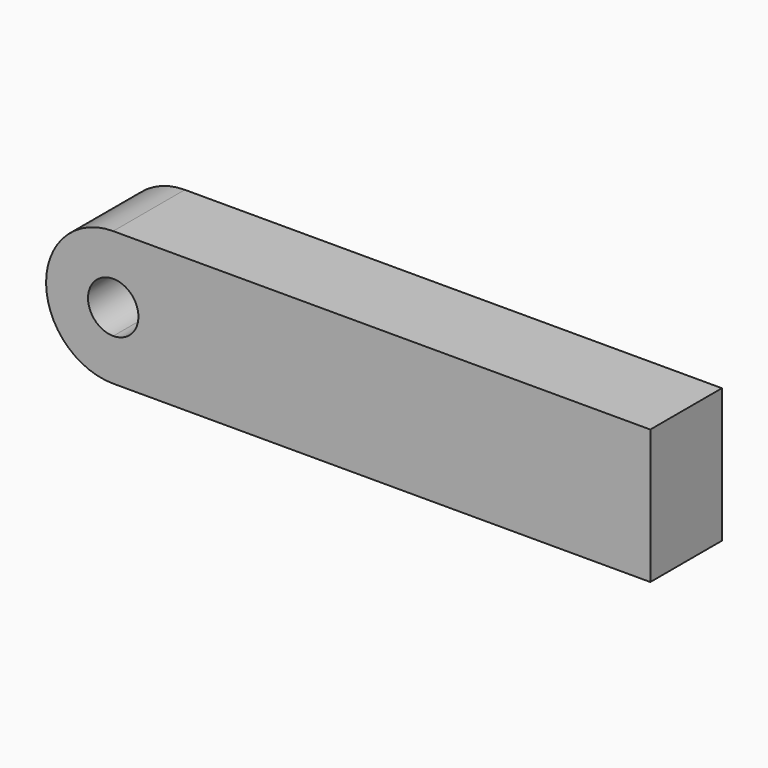
from build123d import *

# Parameters (mm, degrees)
F1_DEPTH = 25.4


with BuildPart() as f1:
    # F0 (on Front) → F1 (new body)
    with BuildSketch(Plane.XZ):
        with BuildLine():
            Line((0, 7.1501), (0, 19.05))
            ThreePointArc((0, 19.05), (-19.05, 0), (0, -19.05))
            Line((0, -19.05), (0, -7.1501))
            ThreePointArc((0, -7.1501), (-7.1501, 0), (0, 7.1501))
        make_face()
        with BuildLine():
            ThreePointArc((0, -19.05), (13.470384, -13.470384), (19.05, 0))
            ThreePointArc((19.05, 0), (13.470384, 13.470384), (0, 19.05))
            Line((0, 19.05), (0, 7.1501))
            ThreePointArc((0, 7.1501), (5.055884, 5.055884), (7.1501, 0))
            ThreePointArc((7.1501, 0), (5.055884, -5.055884), (0, -7.1501))
            Line((0, -7.1501), (0, -19.05))
        make_face()
        with BuildLine():
            ThreePointArc((0, 19.05), (13.470384, 13.470384), (19.05, 0))
            ThreePointArc((19.05, 0), (13.470384, -13.470384), (0, -19.05))
            Line((0, -19.05), (152.4, -19.05))
            Line((152.4, -19.05), (152.4, 19.05))
            Line((152.4, 19.05), (0, 19.05))
        make_face()
    extrude(amount=F1_DEPTH)


solid = f1.part
